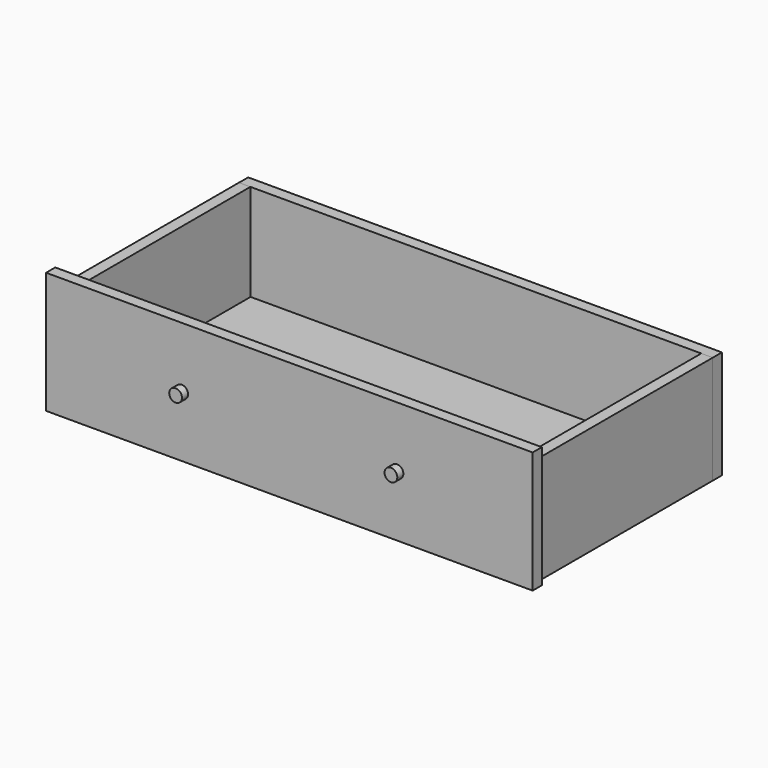
from build123d import *

# Parameters (mm, degrees)
F0_W     = 764
F0_H     = 191
F0_R     = 10
F1_DEPTH = 18
F2_DEPTH = 30
F3_W     = 18
F3_H     = 170
F4_DEPTH = 348
F5_W     = 743.8469
F5_H     = 170
F6_DEPTH = 18
F7_W     = 708.32
F7_H     = 350
F8_DEPTH = 18


with BuildPart() as f1:
    # F0 (on Front) → F1 (new body)
    with BuildSketch(Plane.XZ):
        with Locations((337.903664, 95.5)):
            Rectangle(F0_W, F0_H)
        with Locations((168.849051, 95.5)):
            Circle(F0_R, mode=Mode.SUBTRACT)
        with Locations((506.958277, 95.5)):
            Circle(F0_R, mode=Mode.SUBTRACT)
    extrude(amount=F1_DEPTH)

    # F0 (on Front) → F2 (join)
    with BuildSketch(Plane.XZ):
        with Locations((168.849051, 95.5)):
            Circle(F0_R)
        with Locations((506.958277, 95.5)):
            Circle(F0_R)
    extrude(amount=F2_DEPTH)


with BuildPart() as f4:
    # F3 (on Front) → F4 (new body)
    with BuildSketch(Plane.XZ):
        with Locations((-25.096336, 85)):
            Rectangle(F3_W, F3_H)
        with Locations((700.903664, 85)):
            Rectangle(F3_W, F3_H)
    extrude(amount=-F4_DEPTH)


with BuildPart() as f6:
    # F5 (on face) → F6 (new body)
    with BuildSketch(Plane(origin=(0, 348, 0), x_dir=(-1, 0, 0), z_dir=(0, 1, 0))):
        with Locations((-337.980214, 85)):
            Rectangle(F5_W, F5_H)
    extrude(amount=F6_DEPTH)


with BuildPart() as f8:
    # F7 (on Top) → F8 (new body)
    with BuildSketch(Plane.XY):
        with Locations((338.353519, 175)):
            Rectangle(F7_W, F7_H)
    extrude(amount=F8_DEPTH)


solid = Compound([f1.part, f4.part, f6.part, f8.part])
